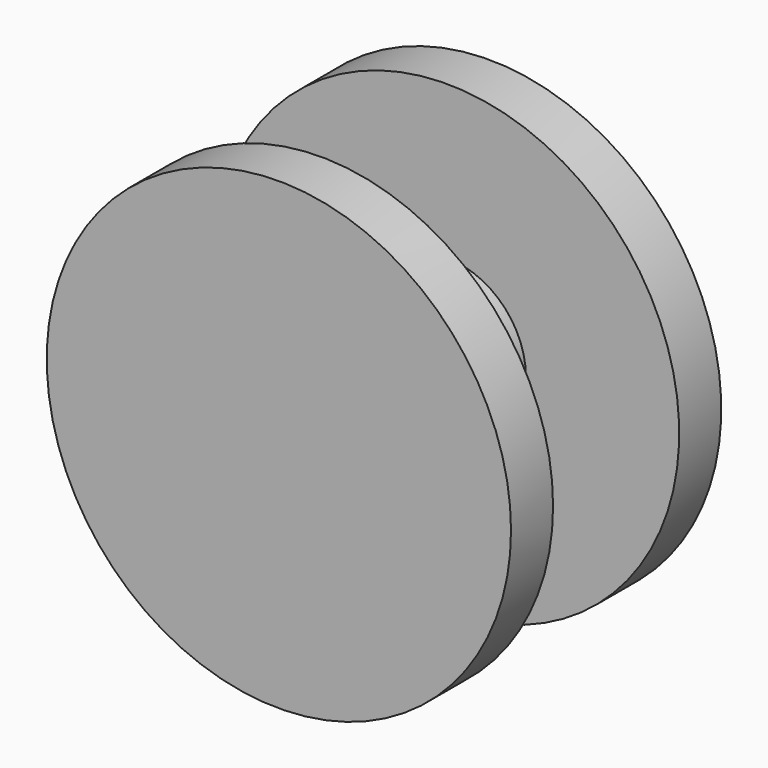
from build123d import *

# Parameters (mm, degrees)
F0_R      = 2.286
F1_DEPTH  = 2.286
F1_FACE_R = 2.286
F2_DEPTH  = 2.286
F3_R      = 6.731
F4_DEPTH  = 1.524
F5_R      = 6.731
F6_DEPTH  = 1.524


with BuildPart() as f1:
    # F0 (on Front) → F1 (new body)
    with BuildSketch(Plane.XZ):
        Circle(F0_R)
    extrude(amount=F1_DEPTH)

    # F1_face (on face) → F2 (join)
    with BuildSketch(Plane(origin=(0, 0, 0), x_dir=(1, 0, 0), z_dir=(0, 1, 0))):
        Circle(F1_FACE_R)
    extrude(amount=F2_DEPTH)

    # F3 (on face) → F4 (join)
    with BuildSketch(Plane(origin=(0, 2.286, 0), x_dir=(-1, 0, 0), z_dir=(0, 1, 0))):
        Circle(F3_R)
    extrude(amount=F4_DEPTH)

    # F5 (on face) → F6 (join)
    with BuildSketch(Plane.XZ.offset(2.286)):
        Circle(F5_R)
    extrude(amount=F6_DEPTH)


solid = f1.part
